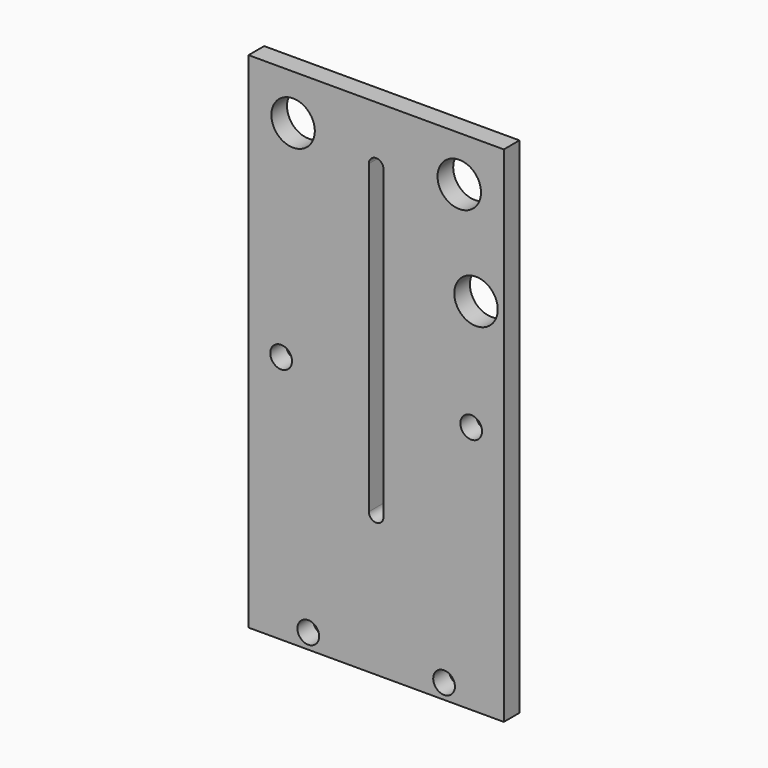
from build123d import *

# Parameters (mm, degrees)
F0_W     = 59.69
F0_H     = 117.856
F1_DEPTH = 4.572
F2_D     = 10.16
F3_D     = 5.08


with BuildPart() as f1:
    # F0 (on Front) → F1 (new body)
    with BuildSketch(Plane.XZ):
        Rectangle(F0_W, F0_H)
        with BuildLine():
            ThreePointArc((-1.7145, 45.72), (0, 47.4345), (1.7145, 45.72))
            Line((1.7145, 45.72), (1.7145, -25.908))
            ThreePointArc((1.7145, -25.908), (0, -27.6225), (-1.7145, -25.908))
            Line((-1.7145, -25.908), (-1.7145, 45.72))
        make_face(mode=Mode.SUBTRACT)
    extrude(amount=F1_DEPTH)

    # F2 (through all)
    with Locations(Plane(origin=(0, 0, 0), x_dir=(1, 0, 0), z_dir=(0, 1, 0))):
        with Locations((-19.431, -48.3362), (19.431, -48.3362), (23.3426, -25.527)):
            Hole(F2_D / 2)

    # F3 (through all)
    with Locations(Plane(origin=(0, 0, 0), x_dir=(1, 0, 0), z_dir=(0, 1, 0))):
        with Locations((-22.225, 0.762), (22.225, 0.762), (-15.875, 55.372), (15.875, 55.372)):
            Hole(F3_D / 2)


solid = f1.part
